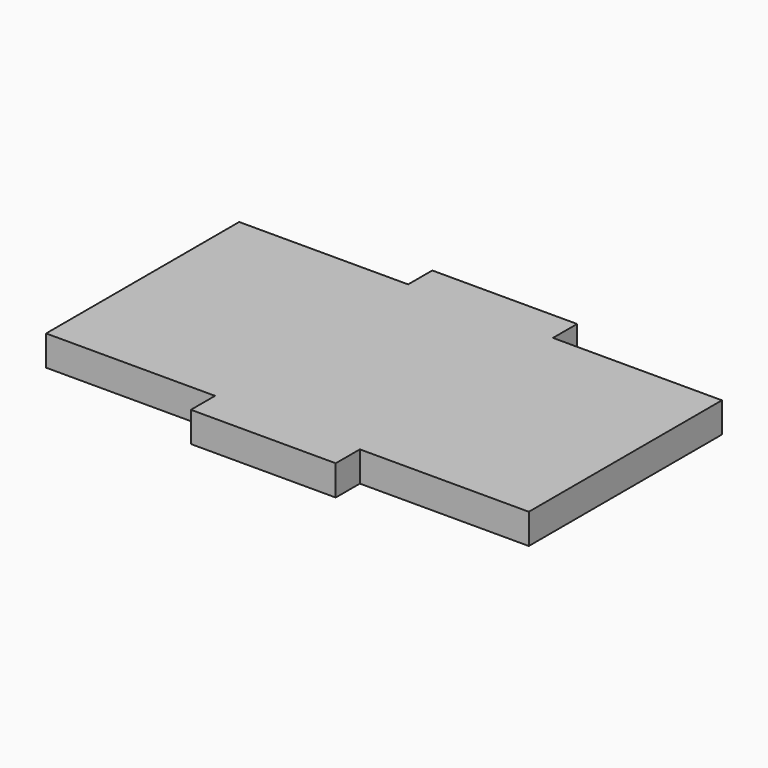
from build123d import *

# Parameters (mm, degrees)
F1_DEPTH = 3.175


with BuildPart() as f1:
    # F0 (on Top) → F1 (new body)
    with BuildSketch(Plane.XY):
        Polygon((7.62, 15.875), (0, 15.875), (-7.62, 15.875), (-7.62, 12.7), (7.62, 12.7), align=None)
        Polygon((12.7, 12.7), (7.62, 12.7), (-7.62, 12.7), (-12.7, 12.7), (-25.4, 12.7), (-25.4, 0), (-25.4, -12.7), (-12.7, -12.7), (-7.62, -12.7), (7.62, -12.7), (12.7, -12.7), (25.4, -12.7), (25.4, 0), (25.4, 12.7), align=None)
        Polygon((7.62, -15.875), (7.62, -12.7), (-7.62, -12.7), (-7.62, -15.875), (0, -15.875), align=None)
    extrude(amount=F1_DEPTH)


solid = f1.part
